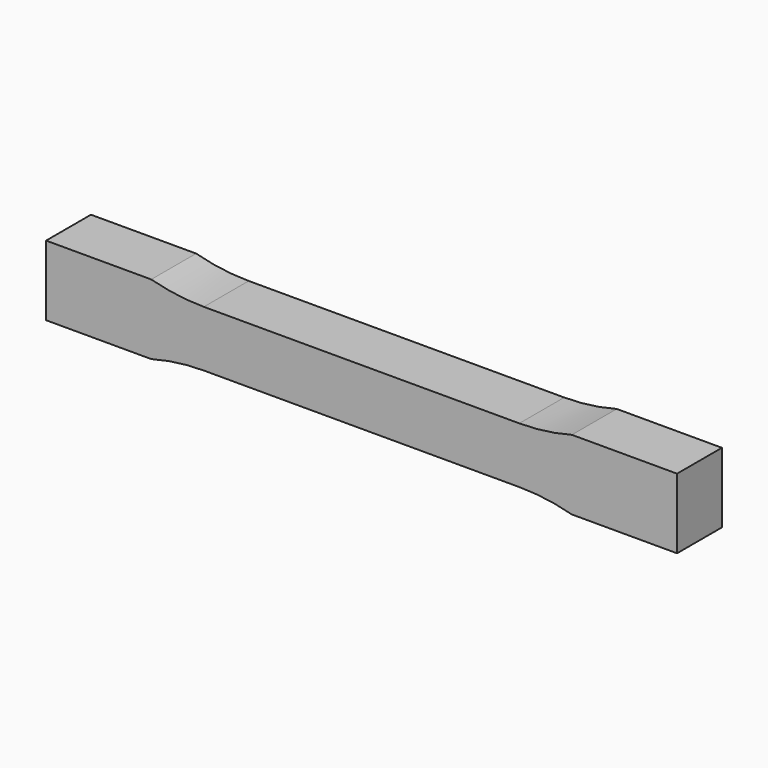
from build123d import *

# Parameters (mm, degrees)
F1_DEPTH = 40


with BuildPart() as f1:
    # F0 (on Front) → F1 (new body)
    with BuildSketch(Plane.XZ):
        with BuildLine():
            Line((112.5, 20), (0, 20))
            Line((0, 20), (-112.5, 20))
            ThreePointArc((-112.5, 20), (-131.415932, 21.255507), (-150, 25))
            Line((-150, 25), (-225, 25))
            Line((-225, 25), (-225, 0))
            Line((-225, 0), (-225, -25))
            Line((-225, -25), (-150, -25))
            ThreePointArc((-150, -25), (-131.415932, -21.255507), (-112.5, -20))
            Line((-112.5, -20), (0, -20))
            Line((0, -20), (112.5, -20))
            ThreePointArc((112.5, -20), (131.415932, -21.255507), (150, -25))
            Line((150, -25), (225, -25))
            Line((225, -25), (225, 0))
            Line((225, 0), (225, 25))
            Line((225, 25), (150, 25))
            ThreePointArc((150, 25), (131.415932, 21.255507), (112.5, 20))
        make_face()
    extrude(amount=F1_DEPTH)


solid = f1.part
